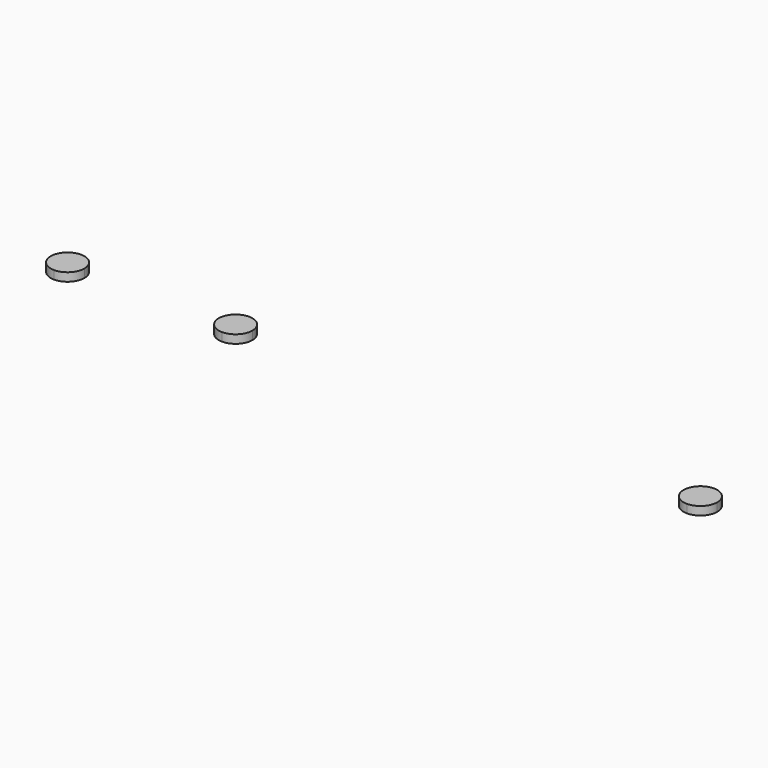
from build123d import *

# Parameters (mm, degrees)
F1_DEPTH = 76.2


with BuildPart() as f1:
    # F0 (on Top) → F1 (new body)
    with BuildSketch(Plane.XY):
        with BuildLine():
            ThreePointArc((-2751.856025, 0), (-2796.492951, 107.763073), (-2904.256025, 152.4))
            ThreePointArc((-2904.256025, 152.4), (-3012.019098, 107.763073), (-3056.656025, 0))
            ThreePointArc((-3056.656025, 0), (-3012.019098, -107.763074), (-2904.256025, -152.4))
            ThreePointArc((-2904.256025, -152.4), (-2796.492951, -107.763073), (-2751.856025, 0))
        make_face()
        with BuildLine():
            ThreePointArc((-1227.856025, 0), (-1272.492951, 107.763073), (-1380.256025, 152.4))
            ThreePointArc((-1380.256025, 152.4), (-1532.656025, 0), (-1380.256025, -152.4))
            ThreePointArc((-1380.256025, -152.4), (-1272.492951, -107.763073), (-1227.856025, 0))
        make_face()
        with BuildLine():
            ThreePointArc((2988.543975, 0), (2943.907049, 107.763073), (2836.143975, 152.4))
            ThreePointArc((2836.143975, 152.4), (2683.743975, 0), (2836.143975, -152.4))
            ThreePointArc((2836.143975, -152.4), (2943.907049, -107.763073), (2988.543975, 0))
        make_face()
    extrude(amount=F1_DEPTH)


solid = f1.part
